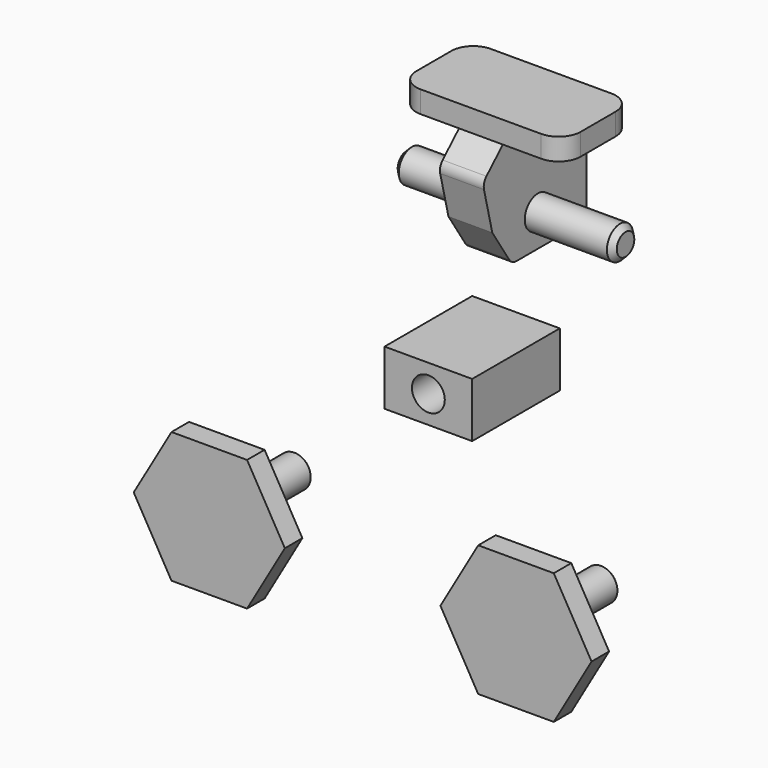
from build123d import *

# Parameters (mm, degrees)
F0_W      = 8
F0_H      = 5
F0_R      = 1.5
F1_DEPTH  = 10
F3_R      = 1.5
F4_DEPTH  = 10
F5_R      = 1.5
F6_DEPTH  = 2
F7_SIZE   = 0.3
F9_W      = 15
F9_H      = 1.994882058
F10_DEPTH = 4
F11_R     = 1.5
F12_DEPTH = 10
F13_SIZE  = 0.5
F15_DEPTH = 2
F16_R     = 2


with BuildPart() as f1:
    # F0 (on Front) → F1 (new body)
    with BuildSketch(Plane.XZ):
        Rectangle(F0_W, F0_H)
        Circle(F0_R, mode=Mode.SUBTRACT)
    extrude(amount=F1_DEPTH)


with BuildPart() as f4:
    # F3 (on offset) → F4 (new body)
    with BuildSketch(Plane.XZ.offset(25)):
        Circle(F3_R)
    extrude(amount=F4_DEPTH)

    # F5 (on face) → F6 (join)
    with BuildSketch(Plane.XZ.offset(35)):
        Polygon((3.4498217854, -5.9752666094), (6.8996435709, 0), (3.4498217854, 5.9752666094), (-3.4498217854, 5.9752666094), (-6.8996435709, 0), (-3.4498217854, -5.9752666094), align=None)
        Circle(F5_R, mode=Mode.SUBTRACT)
    extrude(amount=-F6_DEPTH)

    # F7
    f7_edges = [f4.edges().sort_by_distance(p)[0] for p in [
        (-1.5, -25, 0),
    ]]
    chamfer(f7_edges, length=F7_SIZE)


with BuildPart() as f8_1:
    # F8: copy of F4
    add(f4.part.moved(Location((28, 0, 0))))


with BuildPart() as f10:
    # F9 (on Front) → F10 (new body, symmetric)
    with BuildSketch(Plane.XZ):
        with Locations((0, 19.2469641876)):
            Rectangle(F9_W, F9_H)
    extrude(amount=F10_DEPTH, both=True)



with BuildPart() as f12:
    # F11 (on Right) → F12 (new body, symmetric)
    with BuildSketch(Plane.YZ):
        with Locations((0, 11.1999958754)):
            Circle(F11_R)
    extrude(amount=F12_DEPTH, both=True)

    # F13
    f13_edges = [f12.edges().sort_by_distance(p)[0] for p in [
        (-10, -1.5, 11.199996),
        (10, -1.5, 11.199996),
    ]]
    chamfer(f13_edges, length=F13_SIZE)


with BuildPart() as f10_1:
    add(f10.part)

    add(f12.part)  # F15 merges F12
    # F14 (on Right) → F15 (join, symmetric)
    with BuildSketch(Plane.YZ):
        with BuildLine():
            Line((4, 18.2495231586), (-4, 18.2495231586))
            Line((-4, 18.2495231586), (-5.8712924888, 16.4632893756))
            ThreePointArc((-5.8712924888, 16.4632893756), (-6.1408606839, 16.0197831081), (-6.1518268119, 15.5008952926))
            Line((-6.1518268119, 15.5008952926), (-5.2046888321, 11.6534801605))
            Line((-5.2046888321, 11.6534801605), (-3.2763753528, 8.7025062171))
            ThreePointArc((-3.2763753528, 8.7025062171), (-2.915165079, 8.3700298552), (-2.4392538171, 8.2495231586))
            Line((-2.4392538171, 8.2495231586), (4.5196263585, 8.2495231586))
            ThreePointArc((4.5196263585, 8.2495231586), (5.2267331397, 8.5424163775), (5.5196263585, 9.2495231586))
            Line((5.5196263585, 9.2495231586), (5.5196263585, 16.7495231586))
            Line((5.5196263585, 16.7495231586), (4, 18.2495231586))
        make_face()
    extrude(amount=F15_DEPTH, both=True)

    # F16
    f16_edges = [f10_1.edges().sort_by_distance(p)[0] for p in [
        (7.5, -4, 19.246964),
        (-7.5, -4, 19.246964),
        (7.5, 4, 19.246964),
        (-7.5, 4, 19.246964),
    ]]
    fillet(f16_edges, radius=F16_R)


solid = Compound([f1.part, f4.part, f8_1.part, f10_1.part])
